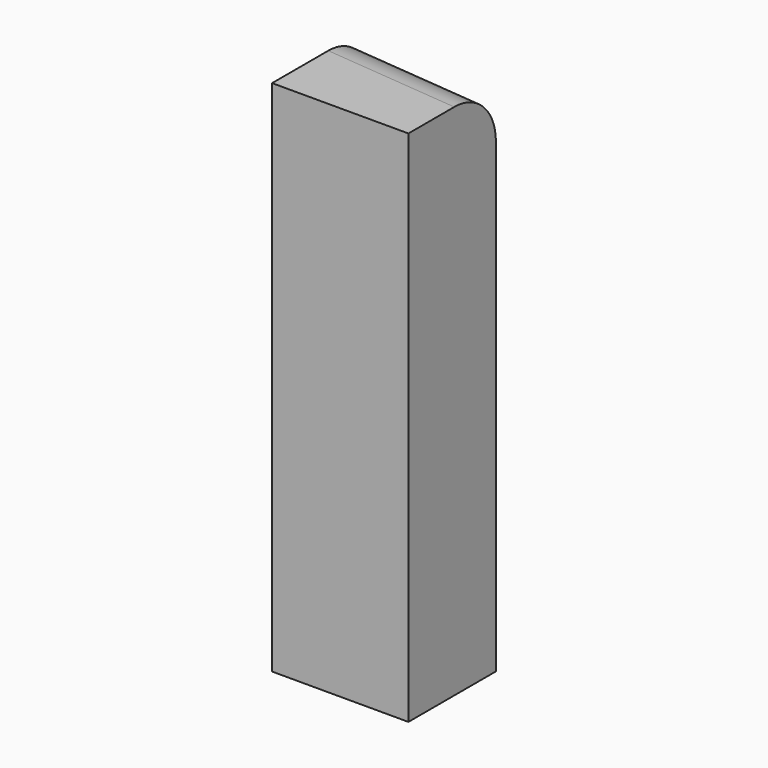
from build123d import *

# Parameters (mm, degrees)
F1_DEPTH = 127
F2_R     = 12.7


with BuildPart() as f1:
    # F0 (on Top) → F1 (new body)
    with BuildSketch(Plane.XY):
        Polygon((-23.028424, 34.230471), (-23.028424, 61.040085), (-56.443118, 64.188562), (-56.443118, 34.230471), align=None)
    extrude(amount=F1_DEPTH)

    # F2
    f2_edges = [f1.edges().sort_by_distance(p)[0] for p in [
        (-39.735771, 62.614324, 127),
    ]]
    fillet(f2_edges, radius=F2_R)


solid = f1.part
